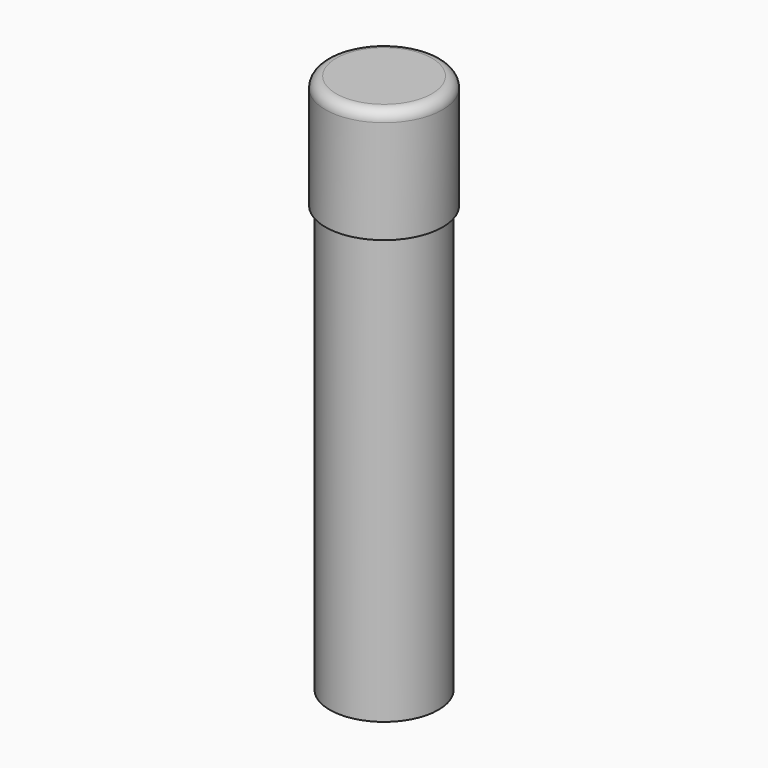
from build123d import *

# Parameters (mm, degrees)
F0_R     = 55
F0_R_2   = 51
F0_R_3   = 46
F1_DEPTH = 7
F2_DEPTH = 500
F3_DEPTH = 100
F4_R     = 10


with BuildPart() as f1:
    # F0 (on Top) → F1 (new body)
    with BuildSketch(Plane.XY):
        Circle(F0_R)
        Circle(F0_R_2, mode=Mode.SUBTRACT)
        Circle(F0_R_2)
        Circle(F0_R_3, mode=Mode.SUBTRACT)
        Circle(F0_R_3)
    extrude(amount=F1_DEPTH)

    # F0 (on Top) → F2 (join)
    with BuildSketch(Plane.XY):
        Circle(F0_R_2)
        Circle(F0_R_3, mode=Mode.SUBTRACT)
    extrude(amount=-F2_DEPTH)

    # F0 (on Top) → F3 (join)
    with BuildSketch(Plane.XY):
        Circle(F0_R)
        Circle(F0_R_2, mode=Mode.SUBTRACT)
    extrude(amount=-F3_DEPTH)

    # F4
    f4_edges = [f1.edges().sort_by_distance(p)[0] for p in [
        (-55, 0, 7),
    ]]
    fillet(f4_edges, radius=F4_R)


solid = f1.part
